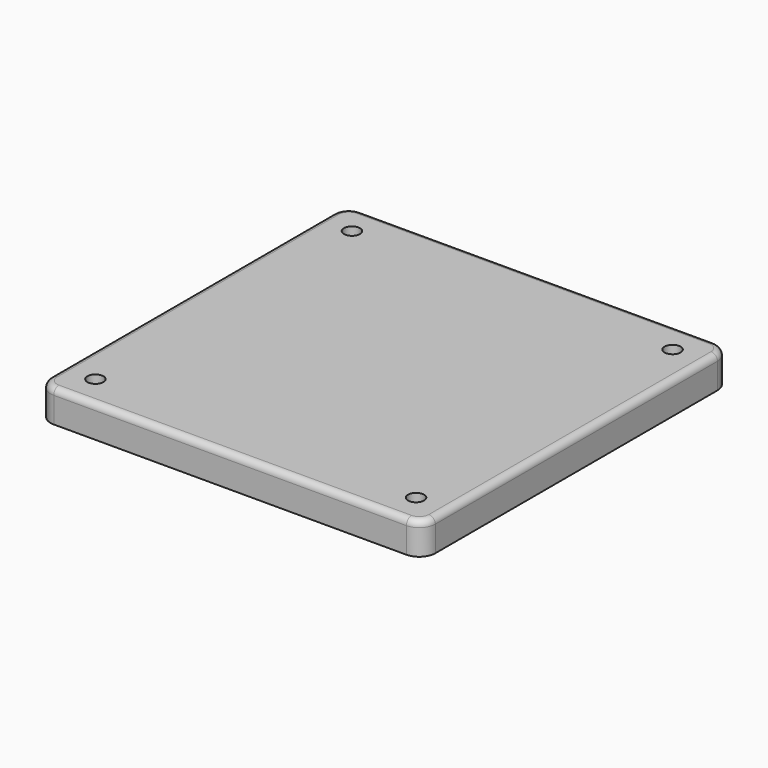
from build123d import *

# Parameters (mm, degrees)
F0_R     = 6.35
F1_DEPTH = 25.4
F2_R     = 5.08


with BuildPart() as f1:
    # F0 (on Top) → F1 (new body)
    with BuildSketch(Plane.XY):
        with BuildLine():
            Line((158.034882, 172.549802), (-121.365118, 172.549802))
            ThreePointArc((-121.365118, 172.549802), (-130.345374, 168.830058), (-134.065118, 159.849802))
            Line((-134.065118, 159.849802), (-134.065118, -119.550198))
            ThreePointArc((-134.065118, -119.550198), (-130.345374, -128.530454), (-121.365118, -132.250198))
            Line((-121.365118, -132.250198), (158.034882, -132.250198))
            ThreePointArc((158.034882, -132.250198), (167.015138, -128.530454), (170.734882, -119.550198))
            Line((170.734882, -119.550198), (170.734882, 159.849802))
            ThreePointArc((170.734882, 159.849802), (167.015138, 168.830058), (158.034882, 172.549802))
        make_face()
        with Locations((-108.665118, -106.850198)):
            Circle(F0_R, mode=Mode.SUBTRACT)
        with Locations((145.334882, -106.850198)):
            Circle(F0_R, mode=Mode.SUBTRACT)
        with Locations((-108.665118, 147.149802)):
            Circle(F0_R, mode=Mode.SUBTRACT)
        with Locations((145.334882, 147.149802)):
            Circle(F0_R, mode=Mode.SUBTRACT)
    extrude(amount=F1_DEPTH)

    # F2
    f2_edges = [f1.edges().sort_by_distance(p)[0] for p in [
        (-134.065118, 20.149802, 25.4),
        (-130.345374, -128.530454, 25.4),
        (18.334882, -132.250198, 25.4),
        (167.015138, -128.530454, 25.4),
        (170.734882, 20.149802, 25.4),
        (167.015138, 168.830058, 25.4),
        (18.334882, 172.549802, 25.4),
        (-130.345374, 168.830058, 25.4),
    ]]
    fillet(f2_edges, radius=F2_R)


solid = f1.part
